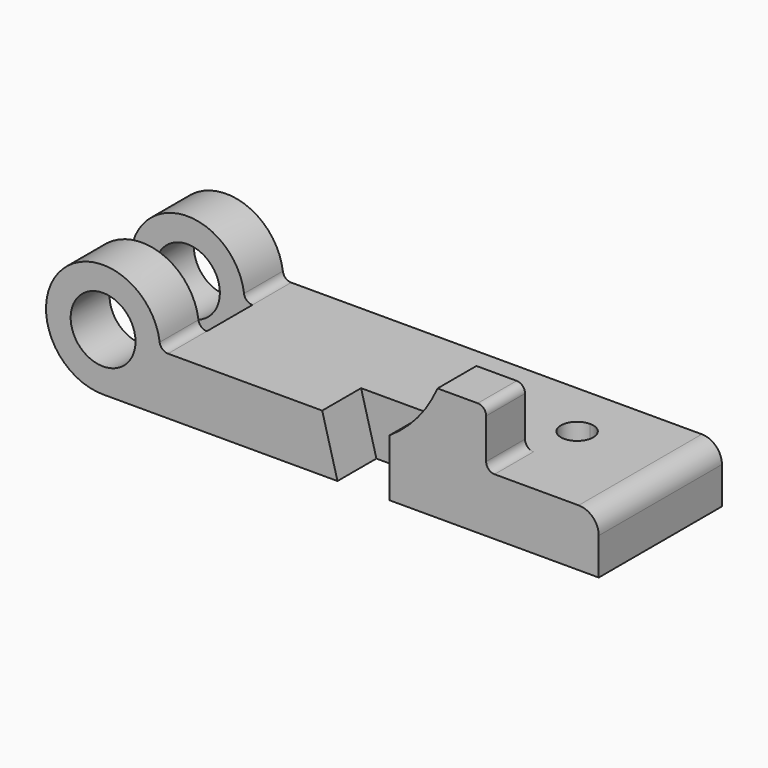
from build123d import *

# Parameters (mm, degrees)
F0_R      = 12.7
F1_DEPTH  = 30.1625
F3_R      = 3.302
F4_R      = 7.874
F5_DEPTH  = 19.05
F6_DEPTH  = 19.05
F7_R      = 3.302
F8_R      = 12.7
F9_DEPTH  = 11.1633
F11_DEPTH = 22.352


with BuildPart() as f1:
    # F0 (on Front) → F1 (new body, symmetric)
    with BuildSketch(Plane.XZ):
        with BuildLine():
            Line((194.2084, 0), (22.352, 0))
            ThreePointArc((22.352, 0), (-15.805251, 15.805251), (0, -22.352))
            Line((0, -22.352), (194.2084, -22.352))
            Line((194.2084, -22.352), (194.2084, 0))
        make_face()
        Circle(F0_R, mode=Mode.SUBTRACT)
    extrude(amount=F1_DEPTH, both=True)

    # F3
    f3_edges = [f1.edges().sort_by_distance(p)[0] for p in [
        (22.352, 0, 0),
    ]]
    fillet(f3_edges, radius=F3_R)

    # F4
    f4_edges = [f1.edges().sort_by_distance(p)[0] for p in [
        (194.2084, 0, 0),
    ]]
    fillet(f4_edges, radius=F4_R)

    # F2 (on face) → F5 (cut)
    with BuildSketch(Plane.XZ.offset(30.1625)):
        Polygon((112.1664, 0), (85.852, 0), (91.8464, -22.352), (112.1664, -22.352), align=None)
    extrude(amount=-F5_DEPTH, mode=Mode.SUBTRACT)

    # F2 (on face) → F6 (join)
    with BuildSketch(Plane.XZ.offset(30.1625)):
        with BuildLine():
            ThreePointArc((131.0386, 22.352), (123.246252, 9.78815), (112.1664, 0))
            Line((112.1664, 0), (131.0386, 0))
            Line((131.0386, 0), (150.0886, 0))
            Line((150.0886, 0), (150.0886, 22.352))
            Line((150.0886, 22.352), (131.0386, 22.352))
        make_face()
    extrude(amount=-F6_DEPTH)

    # F7
    f7_edges = [f1.edges().sort_by_distance(p)[0] for p in [
        (150.0886, -20.6375, 0),
        (150.0886, -20.6375, 22.352),
    ]]
    fillet(f7_edges, radius=F7_R)

    # F8 (on Front) → F9 (cut, symmetric)
    with BuildSketch(Plane.XZ):
        with BuildLine():
            ThreePointArc((25.440608, 0), (23.261179, 0.821417), (22.166074, 2.87699))
            ThreePointArc((22.166074, 2.87699), (-16.791641, 14.753058), (0, -22.352))
            Line((0, -22.352), (25.440608, -22.352))
            Line((25.440608, -22.352), (25.440608, 0))
        make_face()
        Circle(F8_R, mode=Mode.SUBTRACT)
    extrude(amount=F9_DEPTH, both=True, mode=Mode.SUBTRACT)

    # F10 (on face) → F11 (cut)
    with BuildSketch(Plane.XY):
        with BuildLine():
            ThreePointArc((161.6964, 7.8105), (159.836528, 12.300628), (155.3464, 14.1605))
            ThreePointArc((155.3464, 14.1605), (150.856272, 3.320372), (161.6964, 7.8105))
        make_face()
    extrude(amount=-F11_DEPTH, mode=Mode.SUBTRACT)


solid = f1.part
